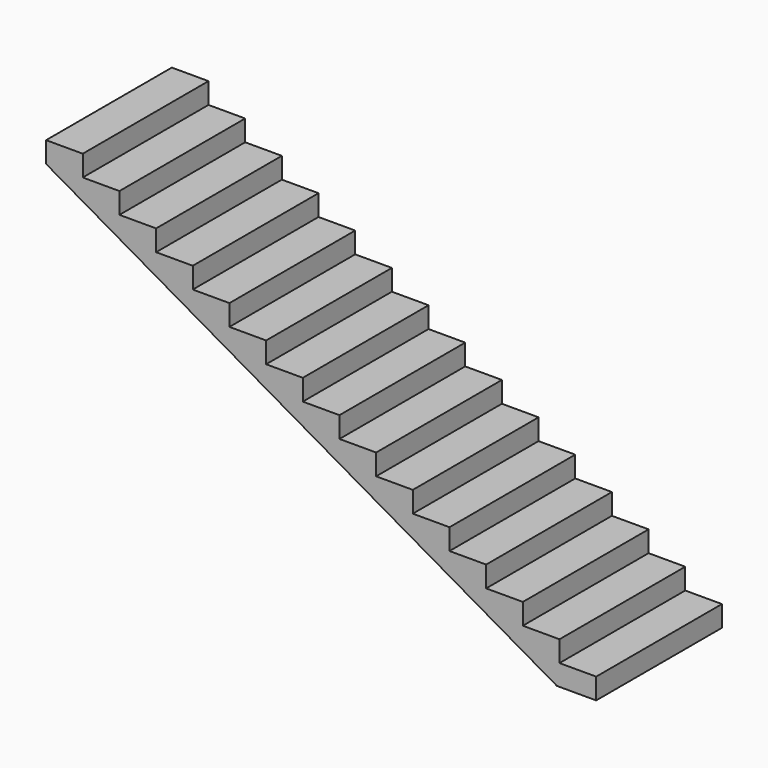
from build123d import *

# Parameters (mm, degrees)
F1_DEPTH = 1524


with BuildPart() as f1:
    # F0 (on Front) → F1 (new body)
    with BuildSketch(Plane.XZ):
        Polygon((-381, 0), (0, 0), (0, 203.2), (-355.6, 203.2), (-355.6, 406.4), (-711.2, 406.4), (-711.2, 609.6), (-1066.8, 609.6), (-1066.8, 812.8), (-1422.4, 812.8), (-1422.4, 1016), (-1778, 1016), (-1778, 1219.2), (-2133.6, 1219.2), (-2133.6, 1422.4), (-2489.2, 1422.4), (-2489.2, 1625.6), (-2844.8, 1625.6), (-2844.8, 1828.8), (-3200.4, 1828.8), (-3200.4, 2032), (-3556, 2032), (-3556, 2235.2), (-3911.6, 2235.2), (-3911.6, 2438.4), (-4267.2, 2438.4), (-4267.2, 2641.6), (-4622.8, 2641.6), (-4622.8, 2844.8), (-4978.4, 2844.8), (-4978.4, 3048), (-5334, 3048), (-5334, 2844.8), align=None)
    extrude(amount=F1_DEPTH)


solid = f1.part
